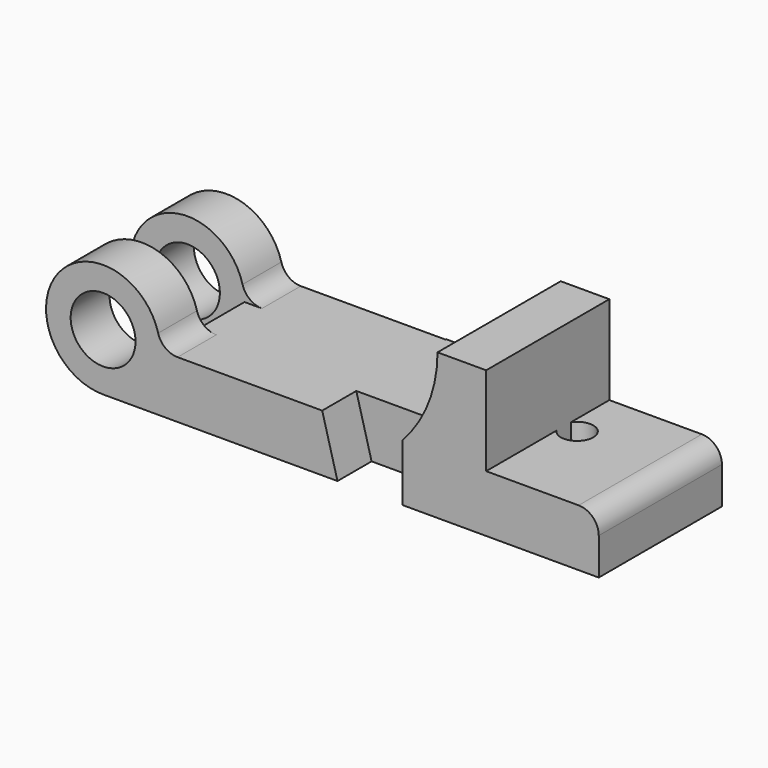
from build123d import *

# Parameters (mm, degrees)
F0_R     = 12.7
F1_DEPTH = 30.1625
F2_R     = 6.35
F3_DEPTH = 34.799
F2_W     = 54.5219902415
F2_H     = 22.3266
F4_DEPTH = 63.5
F5_DEPTH = 30.1625
F6_R     = 7.874
F7_DEPTH = 30.48
F8_DEPTH = 13.462
F9_DEPTH = 25.4
F10_R    = 7.874


with BuildPart() as f1:
    # F0 (on Front) → F1 (new body, symmetric)
    with BuildSketch(Plane.XZ):
        Polygon((85.852, 0), (22.352, 0), (22.352, -22.352), (91.8464, -22.352), align=None)
        with BuildLine():
            Line((22.352, -22.352), (22.352, 0))
            ThreePointArc((22.352, 0), (-15.8052507731, 15.8052507731), (0, -22.352))
            Line((0, -22.352), (22.352, -22.352))
        make_face()
        Circle(F0_R, mode=Mode.SUBTRACT)
    extrude(amount=F1_DEPTH, both=True)

    # F2 (on face) → F4 (cut, symmetric)
    with BuildSketch(Plane.XY):
        with Locations((-4.9089951208, 0)):
            Rectangle(F2_W, F2_H)
    extrude(amount=F4_DEPTH, both=True, mode=Mode.SUBTRACT)

    # F6
    f6_edges = [f1.edges().sort_by_distance(p)[0] for p in [
        (22.352, -20.6629, 0),
        (22.352, 20.6629, 0),
    ]]
    fillet(f6_edges, radius=F6_R)



with BuildPart() as f1b:
    # F0 (on Front) → F1, piece 2 (new body, symmetric)
    with BuildSketch(Plane.XZ):
        Polygon((117.2485877871, 0), (117.2485877871, -22.352), (194.2084, -22.352), (194.2084, 0), (150.0886, 0), align=None)
        with BuildLine():
            ThreePointArc((131.0386, 34.798), (127.4654323074, 16.0825969798), (117.2485877871, 0))
            Line((117.2485877871, 0), (150.0886, 0))
            Line((150.0886, 0), (150.0886, 34.798))
            Line((150.0886, 34.798), (131.0386, 34.798))
        make_face()
    extrude(amount=F1_DEPTH, both=True)

    # F2 (on face) → F3 (cut, through all)
    with BuildSketch(Plane.XY):
        with Locations((155.3464, 7.8105)):
            Circle(F2_R)
    extrude(amount=F3_DEPTH, mode=Mode.SUBTRACT)

    # F0 (on Front) → F5 (join, symmetric)
    with BuildSketch(Plane.XZ):
        with BuildLine():
            ThreePointArc((131.0386, 34.798), (127.4654323074, 16.0825969798), (117.2485877871, 0))
            Line((117.2485877871, 0), (150.0886, 0))
            Line((150.0886, 0), (150.0886, 34.798))
            Line((150.0886, 34.798), (131.0386, 34.798))
        make_face()
    extrude(amount=F5_DEPTH, both=True)


with BuildPart() as f7:
    # F0 (on Front) → F7 (new body)
    with BuildSketch(Plane.XZ):
        Polygon((108.2802, 0), (85.852, 0), (91.8464, -22.352), (117.2485877871, -22.352), (117.2485877871, 0), (117.2464, 0), align=None)
    extrude(amount=-F7_DEPTH)


with BuildPart() as f1_1:
    add(f1.part)

    add(f1b.part)  # F8 merges F1b

    add(f7.part)  # F8 merges F7
    # F0 (on Front) → F8 (join)
    with BuildSketch(Plane.XZ):
        Polygon((108.2802, 0), (85.852, 0), (91.8464, -22.352), (117.2485877871, -22.352), (117.2485877871, 0), (117.2464, 0), align=None)
    extrude(amount=F8_DEPTH)

    # F2 (on face) → F9 (cut)
    with BuildSketch(Plane.XY):
        with BuildLine():
            ThreePointArc((150.0886, 4.2498765771), (157.2085855439, 1.7396874514), (161.6964, 7.8105))
            ThreePointArc((161.6964, 7.8105), (157.2085855439, 13.8813125486), (150.0886, 11.3711234229))
            Line((150.0886, 11.3711234229), (150.0886, 4.2498765771))
        make_face()
    extrude(amount=-F9_DEPTH, mode=Mode.SUBTRACT)

    # F10
    f10_edges = [f1_1.edges().sort_by_distance(p)[0] for p in [
        (194.2084, 0, 0),
    ]]
    fillet(f10_edges, radius=F10_R)


solid = f1_1.part
